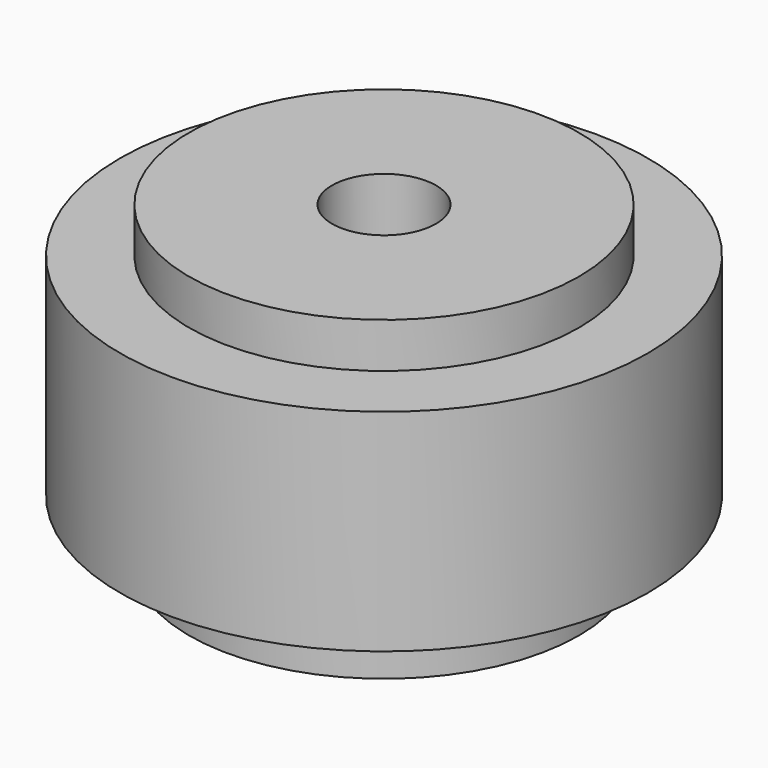
from build123d import *


with BuildPart() as f1:
    # F0 (on Front) → F1 (revolve)
    with BuildSketch(Plane.XZ):
        Polygon((41.741142, 15.996095), (14.671142, 15.996095), (14.671142, -3.691406), (9.938418, -3.691406), (9.938418, -20.350061), (4.827423, -20.350061), (4.827423, -36.251504), (16.753452, -36.251504), (16.753452, -46.284556), (26.218452, -46.284556), (26.218452, -32.465447), (24.325423, -32.465447), (24.325423, -26.786359), (30.572418, -26.786359), (30.572418, -15.238882), (37.955375, -15.238882), (37.955375, -29.436599), (32.276142, -29.436599), (32.276142, -43.823618), (41.741142, -43.823618), (41.741142, -32.465447), (54.803375, -32.465447), (54.803375, 7.477464), (41.741142, 7.477464), align=None)
    revolve(axis=Axis((4.827423, 0, -28.300783), (0, 0, -1)))


solid = f1.part
